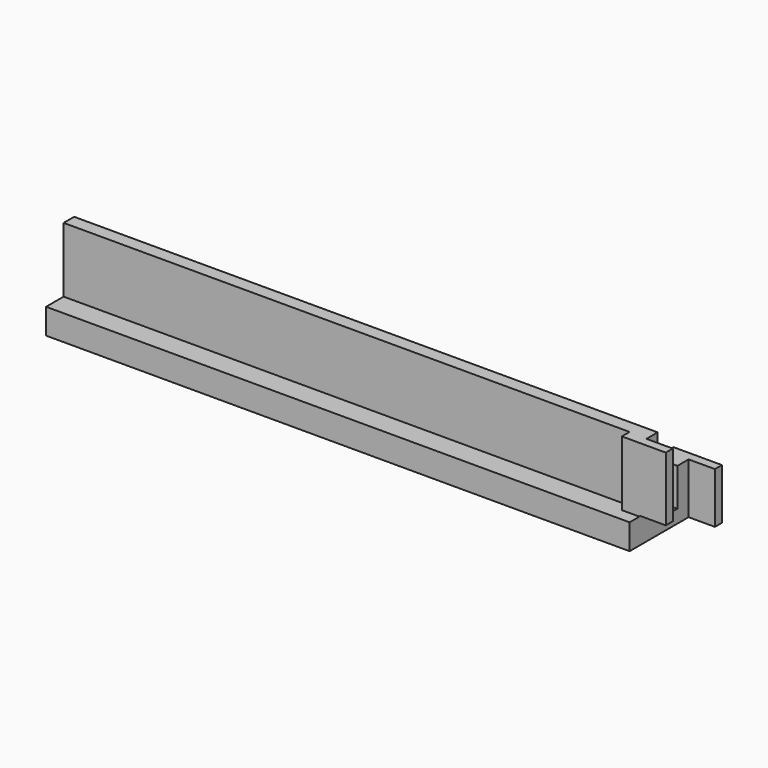
from build123d import *

# Parameters (mm, degrees)
F0_W      = 133
F0_H      = 11.6
F1_DEPTH  = 11.6
F2_W      = 5.6
F2_H      = 8.6
F3_DEPTH  = 133
F4_DEPTH  = 9
F5_W      = 133
F5_H      = 5.8
F6_DEPTH  = 5
F8_W      = 4
F8_H      = 14.8
F9_DEPTH  = 2.2
F10_W     = 2
F10_H     = 14.6
F11_DEPTH = 6
F12_W     = 5
F12_H     = 11.6
F13_DEPTH = 2.2
F14_W     = 2
F14_H     = 11.6
F15_DEPTH = 6


with BuildPart() as f1:
    # F0 (on Front) → F1 (new body)
    with BuildSketch(Plane.XZ):
        Rectangle(F0_W, F0_H)
    extrude(amount=F1_DEPTH)

    # F2 (on face) → F3 (cut)
    with BuildSketch(Plane.YZ.offset(66.5)):
        with Locations((-5.8, 1.5)):
            Rectangle(F2_W, F2_H)
    extrude(amount=-F3_DEPTH, mode=Mode.SUBTRACT)

    # F4 (add): a face of the model
    f4_faces = [f1.faces().sort_by_distance(p)[0] for p in [
        (0, -10.1, 5.8),
    ]]
    extrude(f4_faces, amount=F4_DEPTH)

    # F5 (on face) → F6 (join)
    with BuildSketch(Plane.XZ.offset(11.6)):
        with Locations((0, -2.9)):
            Rectangle(F5_W, F5_H)
    extrude(amount=F6_DEPTH)

    # F8 (on face) → F9 (join)
    with BuildSketch(Plane.XZ.offset(11.6)):
        with Locations((64.5, 7.4)):
            Rectangle(F8_W, F8_H)
    extrude(amount=F9_DEPTH)

    # F10 (on face) → F11 (join)
    with BuildSketch(Plane.YZ.offset(66.5)):
        with Locations((-12.8, 7.5)):
            Rectangle(F10_W, F10_H)
    extrude(amount=F11_DEPTH)

    # F12 (on face) → F13 (join)
    with BuildSketch(Plane(origin=(0, 0, 0), x_dir=(-1, 0, 0), z_dir=(0, 1, 0))):
        with Locations((-64, 0)):
            Rectangle(F12_W, F12_H)
    extrude(amount=F13_DEPTH)

    # F14 (on face) → F15 (join)
    with BuildSketch(Plane.YZ.offset(66.5)):
        with Locations((1.2, 0)):
            Rectangle(F14_W, F14_H)
    extrude(amount=F15_DEPTH)


solid = f1.part
